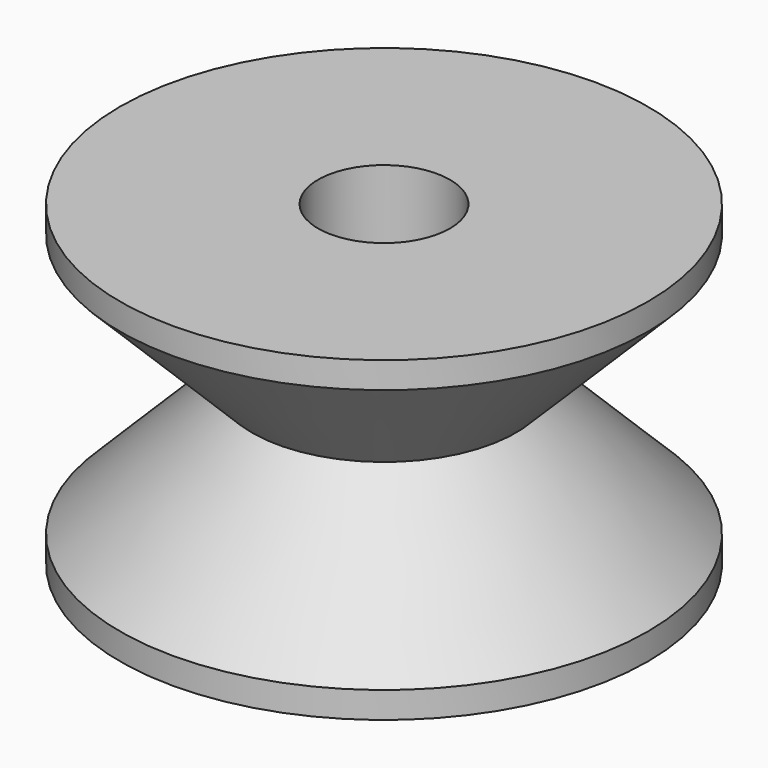
from build123d import *

# Parameters (mm, degrees)
F2_R     = 12.7
F3_DEPTH = 1.27
F4_R     = 12.7
F5_DEPTH = 1.27
F7_R     = 3.175
F8_DEPTH = 12.7


with BuildPart() as f1:
    # F0 (on Front) → F1 (revolve)
    with BuildSketch(Plane.XZ):
        Polygon((0, 3.437184), (0, 16.137184), (-12.7, 16.137184), (-6.35, 9.787184), (-12.7, 3.437184), (-6.35, 3.437184), align=None)
    revolve(axis=Axis((0, 0, 9.787184), (0, 0, -1)))

    # F2 (on face) → F3 (join)
    with BuildSketch(Plane.XY.offset(16.137184)):
        Circle(F2_R)
    extrude(amount=F3_DEPTH)

    # F4 (on face) → F5 (join)
    with BuildSketch(Plane(origin=(0, 0, 3.437184), x_dir=(1, 0, 0), z_dir=(0, 0, -1))):
        Circle(F4_R)
    extrude(amount=F5_DEPTH)

    # F7 (on face) → F8 (cut)
    with BuildSketch(Plane.XY.offset(17.407184)):
        Circle(F7_R)
    extrude(amount=-F8_DEPTH, mode=Mode.SUBTRACT)


solid = f1.part
